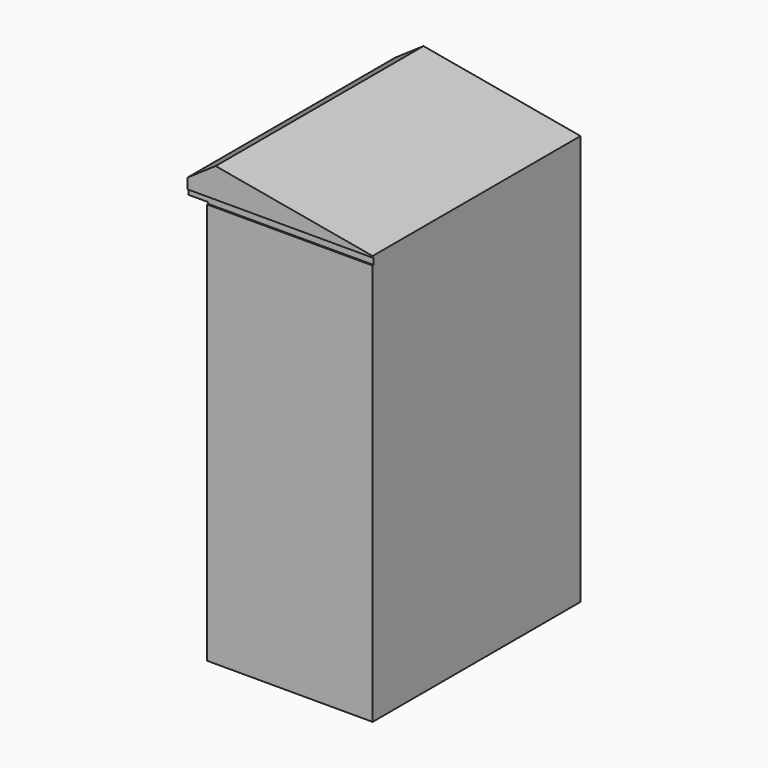
from build123d import *

# Parameters (mm, degrees)
PAD022_DEPTH    = 1000
SKETCH031_W     = 855.878418
SKETCH031_H     = 26.746094
POCKET007_DEPTH = 5
SKETCH033_W     = 1407.922851
SKETCH033_H     = 855.013962
PAD024_DEPTH    = 10
SKETCH034_R     = 70.506238
PAD025_DEPTH    = 10
SKETCH035_R     = 31.935014
POCKET008_DEPTH = 5


with BuildPart() as part:
    # Sketch029 → Pad022 (new body)
    with BuildSketch(Plane.XZ):
        Polygon((-2829.030029, 2082.267822), (-2829.030029, 529.913818), (-2191.9729, 529.913818), (-2191.9729, 2108.837402), (-2796.181885, 2217.138916), (-2904.483643, 2143.037842), (-2904.483643, 2082.267822), align=None)
    extrude(amount=PAD022_DEPTH)

    # Sketch031 (on Face9 of Pad022) → Pocket007 (cut)
    with BuildSketch(Plane.XZ.offset(1000)):
        with Locations((-2559.213379, 2089.656738)):
            Rectangle(SKETCH031_W, SKETCH031_H)
    extrude(amount=-POCKET007_DEPTH, mode=Mode.SUBTRACT)

    # Sketch033 (on Face1 of Pocket007) → Pad024 (join)
    with BuildSketch(Plane(origin=(-2829.030029, 0, 0), x_dir=(0, 0, -1), z_dir=(-1, 0, 0))):
        with Locations((-1303.355225, 502.411583)):
            Rectangle(SKETCH033_W, SKETCH033_H)
    extrude(amount=PAD024_DEPTH)

    # Sketch034 (on Face17 of Pad024) → Pad025 (join)
    with BuildSketch(Plane(origin=(-2839.030029, 0, 0), x_dir=(0, 0, -1), z_dir=(-1, 0, 0))):
        with Locations((-1372.109253, 798.877693)):
            Circle(SKETCH034_R)
    extrude(amount=PAD025_DEPTH)

    # Sketch035 (on Face20 of Pad025) → Pocket008 (cut)
    with BuildSketch(Plane(origin=(-2849.030029, 0, 0), x_dir=(0, 0, -1), z_dir=(-1, 0, 0))):
        with Locations((-1372.115967, 799.249336)):
            Circle(SKETCH035_R)
    extrude(amount=-POCKET008_DEPTH, mode=Mode.SUBTRACT)


with BuildPart() as part_1:
    # Body018 placement: moved
    add(part.part.moved(Location((0, 747, 0))))


solid = part_1.part
